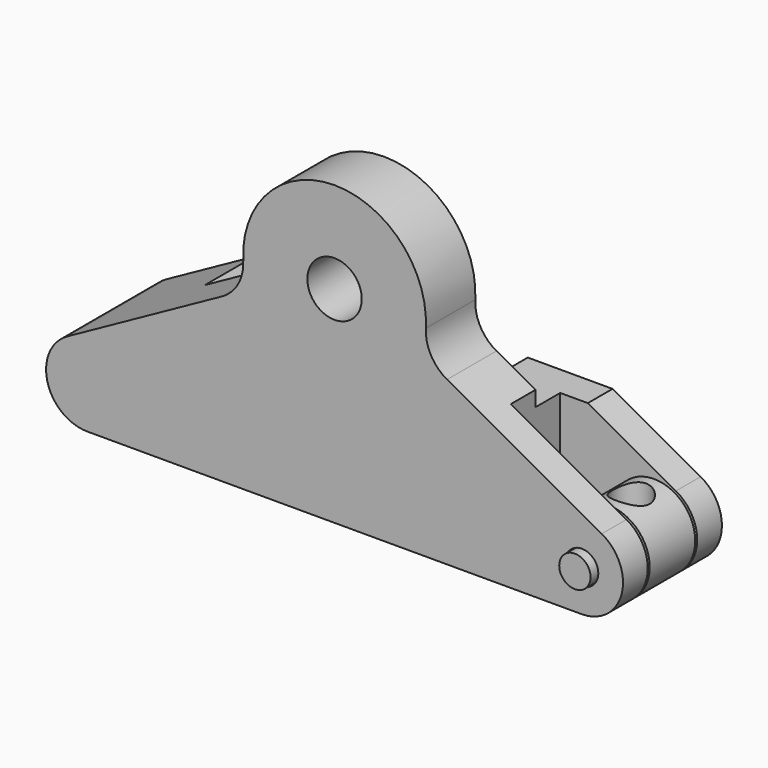
from build123d import *

# Parameters (mm, degrees)
F1_DEPTH       = 7.5
F3_DEPTH       = 7.5
F4_D           = 6.6
F6_R           = 5
F7_D           = 4
F10_DEPTH      = 3.75
F11_R          = 5
F12_DEPTH      = 3.45
F13_R          = 1.9
F14_DEPTH      = 5
F14_DEPTH_BACK = 12
F15_R          = 2.25
F16_DEPTH      = 36.0758576219


with BuildPart() as f1:
    # F0 (on Front) → F1 (new body, symmetric)
    with BuildSketch(Plane.XZ):
        with BuildLine():
            Line((-10.5246857001, 21.4779671239), (-32.4188262894, 9.3759889604))
            ThreePointArc((-32.4188262894, 9.3759889604), (-34.8414845245, 3.7509893519), (-30, 0))
            Line((-30, 0), (30, 0))
            ThreePointArc((30, 0), (34.8414845245, 3.7509893519), (32.4188262894, 9.3759889604))
            Line((32.4188262894, 9.3759889604), (10.5246857001, 21.4779671239))
            ThreePointArc((10.5246857001, 21.4779671239), (0, 36.0748576219), (-10.5246857001, 21.4779671239))
        make_face()
    extrude(amount=F1_DEPTH, both=True)

    # F2 (on face) → F3 (cut)
    with BuildSketch(Plane(origin=(0, 7.5, 0), x_dir=(-1, 0, 0), z_dir=(0, 1, 0))):
        with BuildLine():
            Line((29.3092999119, 15.2839452874), (11.0376879026, 35.1393811844))
            ThreePointArc((11.0376879026, 35.1393811844), (0, 39.9821450561), (-11.0376879026, 35.1393811844))
            Line((-11.0376879026, 35.1393811844), (-29.3092999119, 15.2839452874))
            Line((-29.3092999119, 15.2839452874), (-11.4431167628, 15.2839452874))
            ThreePointArc((-11.4431167628, 15.2839452874), (0, 9.9821450561), (11.4431167628, 15.2839452874))
            Line((11.4431167628, 15.2839452874), (29.3092999119, 15.2839452874))
        make_face()
    extrude(amount=-F3_DEPTH, mode=Mode.SUBTRACT)

    # F4 (through all)
    with Locations(Plane(origin=(0, 0, 0), x_dir=(1, 0, 0), z_dir=(0, 1, 0))):
        with Locations((0, -24.9821450561)):
            Hole(F4_D / 2)

    # F6
    f6_edges = [f1.edges().sort_by_distance(p)[0] for p in [
        (10.524686, -3.75, 21.477967),
        (-10.524686, -3.75, 21.477967),
    ]]
    fillet(f6_edges, radius=F6_R)

    # F7 (through all)
    with Locations(Plane(origin=(0, 7.5, 0), x_dir=(-1, 0, 0), z_dir=(0, 1, 0))):
        with Locations((-30, 5)):
            Hole(F7_D / 2)

    # F9 (on Front) → F10 (cut, symmetric)
    with BuildSketch(Plane.XZ):
        with BuildLine():
            Line((18.3783179199, 0), (30, 0))
            ThreePointArc((30, 0), (34.8414845245, 3.7509893519), (32.4188262894, 9.3759889604))
            Line((32.4188262894, 9.3759889604), (18.3783179199, 17.136874801))
            Line((18.3783179199, 17.136874801), (18.3783179199, 0))
        make_face()
    extrude(amount=F10_DEPTH, both=True, mode=Mode.SUBTRACT)


with BuildPart() as f12:
    # F11 (on Front) → F12 (new body, symmetric)
    with BuildSketch(Plane.XZ):
        with Locations((30, 5)):
            Circle(F11_R)
    extrude(amount=F12_DEPTH, both=True)

    # F13 (on face) → F14 (join, two sides)
    with BuildSketch(Plane(origin=(0, 3.45, 0), x_dir=(-1, 0, 0), z_dir=(0, 1, 0))) as f14_sk:
        with Locations((-30, 5)):
            Circle(F13_R)
    extrude(amount=F14_DEPTH)
    extrude(f14_sk.sketch, amount=-F14_DEPTH_BACK)

    # F15 (on Top) → F16 (cut, through all)
    with BuildSketch(Plane.XY):
        with Locations((30, 0)):
            Circle(F15_R)
    extrude(amount=F16_DEPTH, mode=Mode.SUBTRACT)


solid = Compound([f1.part, f12.part])
